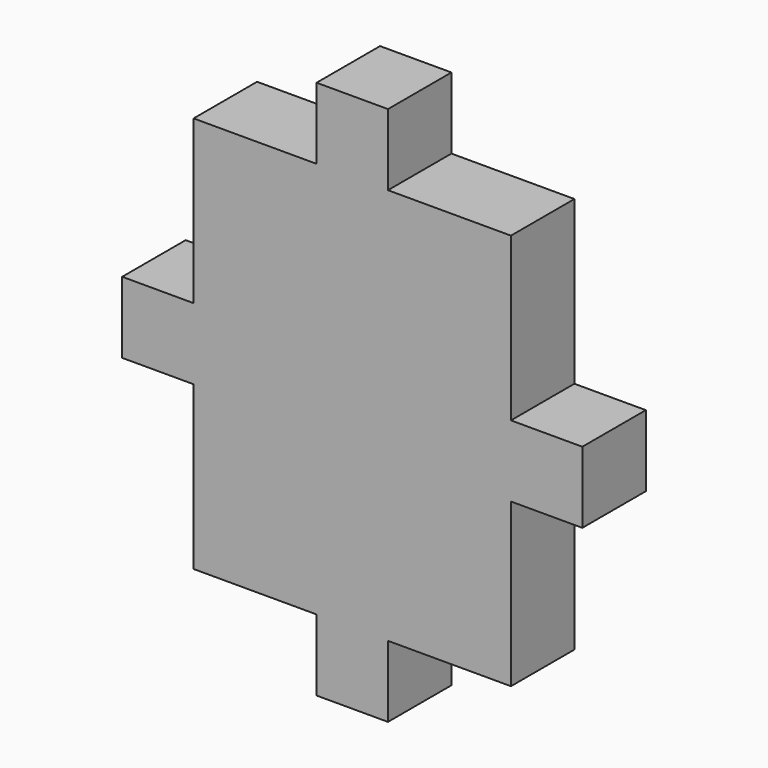
from build123d import *

# Parameters (mm, degrees)
F0_W     = 9
F0_H     = 9
F1_DEPTH = 10


with BuildPart() as f1:
    # F0 (on Front) → F1 (new body)
    with BuildSketch(Plane.XZ):
        Polygon((-21.18931, 50), (-36.68931, 50), (-36.68931, 29.5), (-36.68931, 20.5), (-36.68931, 0), (-21.18931, 0), (-12.18931, 0), (3.31069, 0), (3.31069, 20.5), (3.31069, 29.5), (3.31069, 50), (-12.18931, 50), align=None)
        with Locations((-16.68931, 54.5)):
            Rectangle(F0_W, F0_H)
        with Locations((-41.18931, 25)):
            Rectangle(F0_W, F0_H)
        with Locations((7.81069, 25)):
            Rectangle(F0_W, F0_H)
        with Locations((-16.68931, -4.5)):
            Rectangle(F0_W, F0_H)
    extrude(amount=F1_DEPTH)


solid = f1.part
